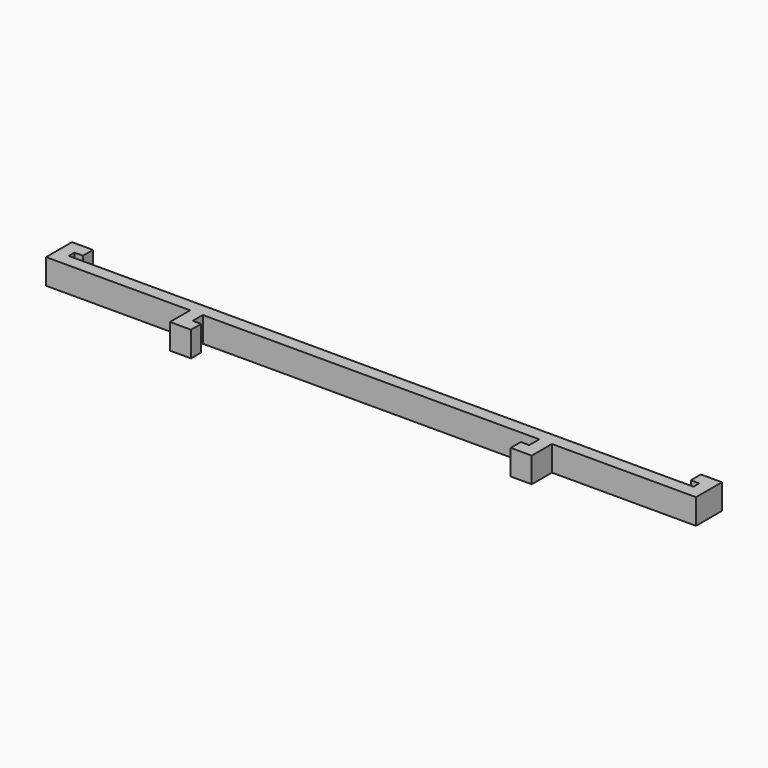
from build123d import *

# Parameters (mm, degrees)
F1_DEPTH = 6


with BuildPart() as f1:
    # F0 (on Top) → F1 (new body)
    with BuildSketch(Plane.XY):
        Polygon((-72.304564, 6.418628), (-72.304564, 9.418628), (-77.304564, 9.418628), (-77.304564, 1.718628), (-43.054564, 1.718628), (-43.054564, -4.281372), (-38.054564, -4.281372), (-38.054564, -1.281372), (-40.054564, -1.281372), (-40.054564, 1.718628), (39.945436, 1.718628), (39.945436, -1.281372), (37.945436, -1.281372), (37.945436, -4.281372), (42.945436, -4.281372), (42.945436, 1.718628), (77.195436, 1.718628), (77.195436, 9.418628), (72.195436, 9.418628), (72.195436, 6.418628), (74.195436, 6.418628), (74.195436, 4.718628), (-74.304564, 4.718628), (-74.304564, 6.418628), align=None)
    extrude(amount=F1_DEPTH)


solid = f1.part
